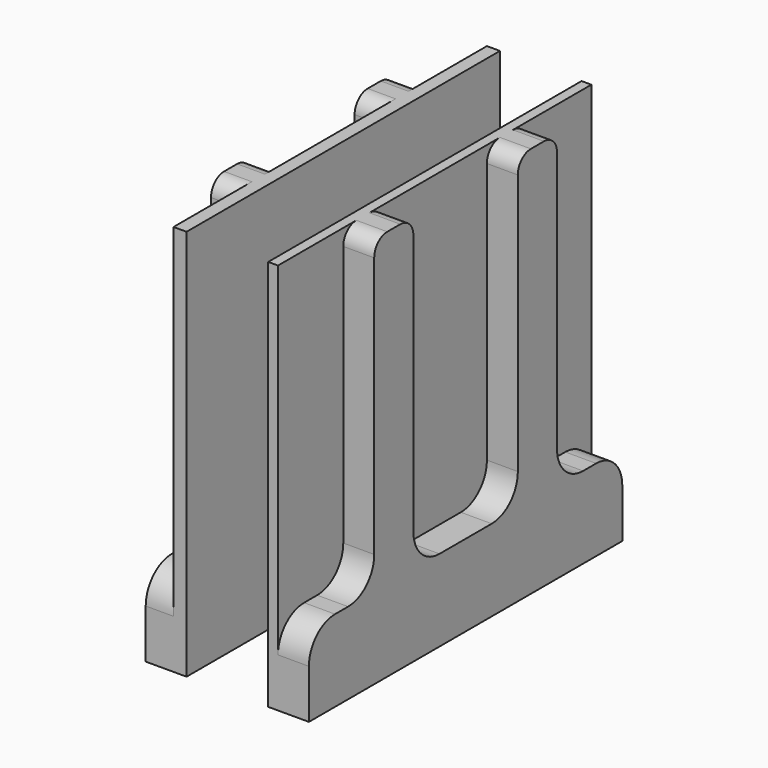
from build123d import *

# Parameters (mm, degrees)
F1_DEPTH = 50
F2_W     = 32
F2_H     = 105
F3_DEPTH = 120
F4_W     = 25
F4_H     = 120
F5_DEPTH = 120.001


with BuildPart() as f1:
    # F0 (on Right) → F1 (new body)
    with BuildSketch(Plane.YZ):
        with BuildLine():
            Line((-32.487517, -12.550725), (-37.487517, -12.550725))
            ThreePointArc((-37.487517, -12.550725), (-44.558585, -15.479657), (-47.487517, -22.550725))
            Line((-47.487517, -22.550725), (-47.487517, -37.550725))
            Line((-47.487517, -37.550725), (72.512483, -37.550725))
            Line((72.512483, -37.550725), (72.512483, -22.550725))
            ThreePointArc((72.512483, -22.550725), (69.583551, -15.479657), (62.512483, -12.550725))
            Line((62.512483, -12.550725), (57.512483, -12.550725))
            ThreePointArc((57.512483, -12.550725), (50.441415, -9.621793), (47.512483, -2.550725))
            Line((47.512483, -2.550725), (47.512483, 77.449275))
            ThreePointArc((47.512483, 77.449275), (46.048017, 80.984809), (42.512483, 82.449275))
            Line((42.512483, 82.449275), (37.512483, 82.449275))
            ThreePointArc((37.512483, 82.449275), (33.976949, 80.984809), (32.512483, 77.449275))
            Line((32.512483, 77.449275), (32.512483, -2.550725))
            ThreePointArc((32.512483, -2.550725), (29.583551, -9.621793), (22.512483, -12.550725))
            Line((22.512483, -12.550725), (2.512483, -12.550725))
            ThreePointArc((2.512483, -12.550725), (-4.558585, -9.621793), (-7.487517, -2.550725))
            Line((-7.487517, -2.550725), (-7.487517, 77.449275))
            ThreePointArc((-7.487517, 77.449275), (-8.951983, 80.984809), (-12.487517, 82.449275))
            Line((-12.487517, 82.449275), (-17.487517, 82.449275))
            ThreePointArc((-17.487517, 82.449275), (-21.023051, 80.984809), (-22.487517, 77.449275))
            Line((-22.487517, 77.449275), (-22.487517, -2.550725))
            ThreePointArc((-22.487517, -2.550725), (-25.416449, -9.621793), (-32.487517, -12.550725))
        make_face()
    extrude(amount=F1_DEPTH)

    # F2 (on face) → F3 (join)
    with BuildSketch(Plane(origin=(0, 72.512483, 0), x_dir=(-1, 0, 0), z_dir=(0, 1, 0))):
        with Locations((-24.522445, 29.949275)):
            Rectangle(F2_W, F2_H)
    extrude(amount=-F3_DEPTH)

    # F4 (on face) → F5 (cut, through all)
    with BuildSketch(Plane(origin=(0, 72.512483, 0), x_dir=(-1, 0, 0), z_dir=(0, 1, 0))):
        with Locations((-25.022445, 22.449275)):
            Rectangle(F4_W, F4_H)
    extrude(amount=-F5_DEPTH, mode=Mode.SUBTRACT)


solid = f1.part
